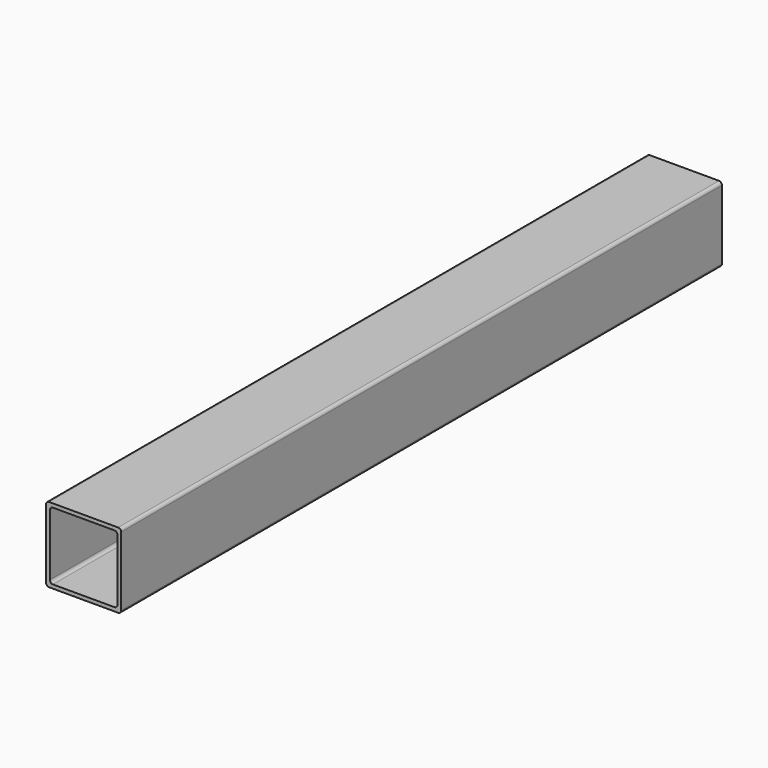
from build123d import *

# Parameters (mm, degrees)
F1_DEPTH = 250


with BuildPart() as f1:
    # F0 (on Front) → F1 (new body, symmetric)
    with BuildSketch(Plane.XZ):
        with BuildLine():
            ThreePointArc((25, 23), (24.414214, 24.414214), (23, 25))
            Line((23, 25), (-23, 25))
            ThreePointArc((-23, 25), (-24.414214, 24.414214), (-25, 23))
            Line((-25, 23), (-25, -23))
            ThreePointArc((-25, -23), (-24.414214, -24.414214), (-23, -25))
            Line((-23, -25), (23, -25))
            ThreePointArc((23, -25), (24.414214, -24.414214), (25, -23))
            Line((25, -23), (25, 23))
        make_face()
        with BuildLine():
            Line((-20.5, 22.5), (20.5, 22.5))
            ThreePointArc((20.5, 22.5), (21.914214, 21.914214), (22.5, 20.5))
            Line((22.5, 20.5), (22.5, -20.5))
            ThreePointArc((22.5, -20.5), (21.914214, -21.914214), (20.5, -22.5))
            Line((20.5, -22.5), (-20.5, -22.5))
            ThreePointArc((-20.5, -22.5), (-21.914214, -21.914214), (-22.5, -20.5))
            Line((-22.5, -20.5), (-22.5, 20.5))
            ThreePointArc((-22.5, 20.5), (-21.914214, 21.914214), (-20.5, 22.5))
        make_face(mode=Mode.SUBTRACT)
    extrude(amount=F1_DEPTH, both=True)


solid = f1.part
